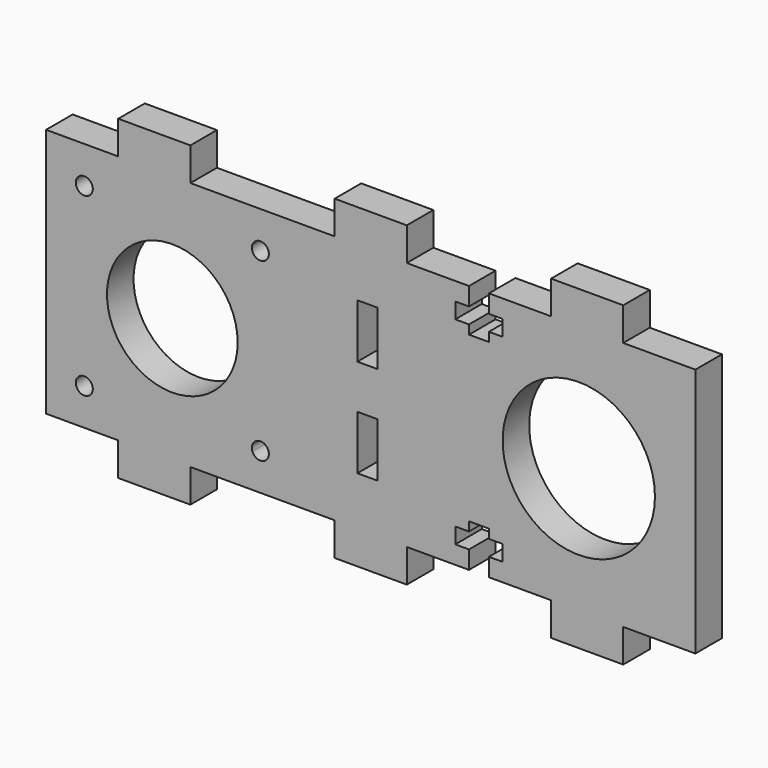
from build123d import *

# Parameters (mm, degrees)
F0_R     = 1.5
F0_W     = 3.5052
F0_H     = 9.525
F0_R_2   = 11.5
F0_R_3   = 10.8625
F1_DEPTH = 5.842
F2_R     = 13.4083698832
F3_DEPTH = 25.4


with BuildPart() as f1:
    # F0 (on Front) → F1 (new body)
    with BuildSketch(Plane.XZ):
        Polygon((-44.45, 22.00021), (-57.1500007371, 22.00021), (-57.1499992629, -22.00021), (-44.45, -22.00021), (-44.45, -27.84221), (-31.75, -27.84221), (-31.75, -22.00021), (-20.8026, -22.00021), (-17.2974, -22.00021), (-6.35, -22.00021), (-6.35, -27.84221), (6.35, -27.84221), (6.35, -22.00021), (17.2974, -22.00021), (17.2974, -18.82521), (14.88125, -18.82521), (14.88125, -16.047085), (17.2974, -16.047085), (17.2974, -14.459585), (20.8026, -14.459585), (20.8026, -16.047085), (23.21875, -16.047085), (23.21875, -18.82521), (20.8026, -18.82521), (20.8026, -22.00021), (31.75, -22.00021), (31.75, -27.84221), (44.45, -27.84221), (44.45, -22.00021), (57.1500007371, -22.00021), (57.1499992629, 22.00021), (44.45, 22.00021), (44.45, 27.84221), (31.75, 27.84221), (31.75, 22.00021), (20.8026, 22.00021), (20.8026, 18.82521), (23.21875, 18.82521), (23.21875, 16.047085), (20.8026, 16.047085), (20.8026, 14.459585), (17.2974, 14.459585), (17.2974, 16.047085), (14.88125, 16.047085), (14.88125, 18.82521), (17.2974, 18.82521), (17.2974, 22.00021), (6.35, 22.00021), (6.35, 27.84221), (-6.35, 27.84221), (-6.35, 22.00021), (-17.2974, 22.00021), (-20.8026, 22.00021), (-31.75, 22.00021), (-31.75, 27.84221), (-44.45, 27.84221), align=None)
        with Locations((-50.425, -15.5)):
            Circle(F0_R, mode=Mode.SUBTRACT)
        with BuildLine():
            ThreePointArc((-20.8216739071, -16.047085), (-19.7033784648, -14.0260578606), (-17.925, -15.5))
            ThreePointArc((-17.925, -15.5), (-19.1466215352, -16.9739421394), (-20.8216739071, -16.047085))
        make_face(mode=Mode.SUBTRACT)
        with Locations((-0.5969042566, -8.6458698832)):
            Rectangle(F0_W, F0_H, mode=Mode.SUBTRACT)
        with Locations((-34.925, 0)):
            Circle(F0_R_2, mode=Mode.SUBTRACT)
        with Locations((-0.5969042566, 8.6458698832)):
            Rectangle(F0_W, F0_H, mode=Mode.SUBTRACT)
        with Locations((-50.425, 15.5)):
            Circle(F0_R, mode=Mode.SUBTRACT)
        with BuildLine():
            ThreePointArc((-20.8216739071, 16.047085), (-19.1466215352, 16.9739421394), (-17.925, 15.5))
            ThreePointArc((-17.925, 15.5), (-19.7033784648, 14.0260578606), (-20.8216739071, 16.047085))
        make_face(mode=Mode.SUBTRACT)
        with Locations((36.6268, 0)):
            Circle(F0_R_3, mode=Mode.SUBTRACT)
    extrude(amount=F1_DEPTH)

    # F2 (on face) → F3 (cut)
    with BuildSketch(Plane.XZ.offset(5.842)):
        with Locations((36.6268, 0)):
            Circle(F2_R)
    extrude(amount=-F3_DEPTH, mode=Mode.SUBTRACT)


solid = f1.part
